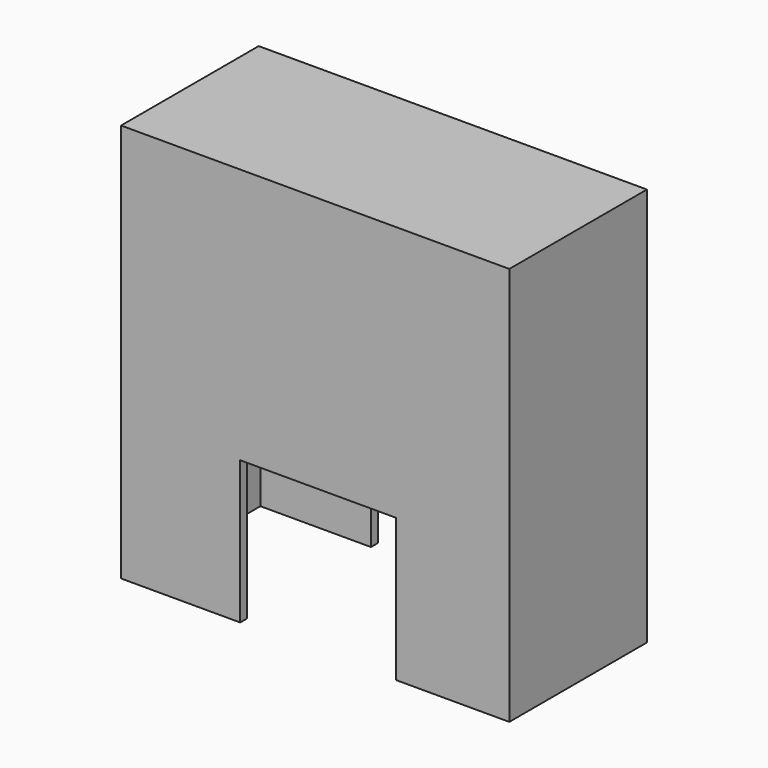
from build123d import *

# Parameters (mm, degrees)
F1_DEPTH = 50.8
F2_T     = -2.54


with BuildPart() as f1:
    # F0 (on Front) → F1 (new body)
    with BuildSketch(Plane.XZ):
        Polygon((-30.403135, 62.145095), (-145.066381, 62.145095), (-145.066381, -55.625658), (-109.885611, -55.625658), (-109.885611, -13.436122), (-63.846581, -13.436122), (-63.846581, -55.625658), (-30.403135, -55.625658), align=None)
    extrude(amount=F1_DEPTH)

    # F2
    f2_openings = [f1.faces().sort_by_distance(p)[0] for p in [
        (-86.866096, -25.4, -13.436122),
        (-109.885611, -25.4, -34.53089),
        (-63.846581, -25.4, -34.53089),
        (-127.475996, -25.4, -55.625658),
        (-47.124858, -25.4, -55.625658),
    ]]
    offset(amount=F2_T, openings=f2_openings)


solid = f1.part
